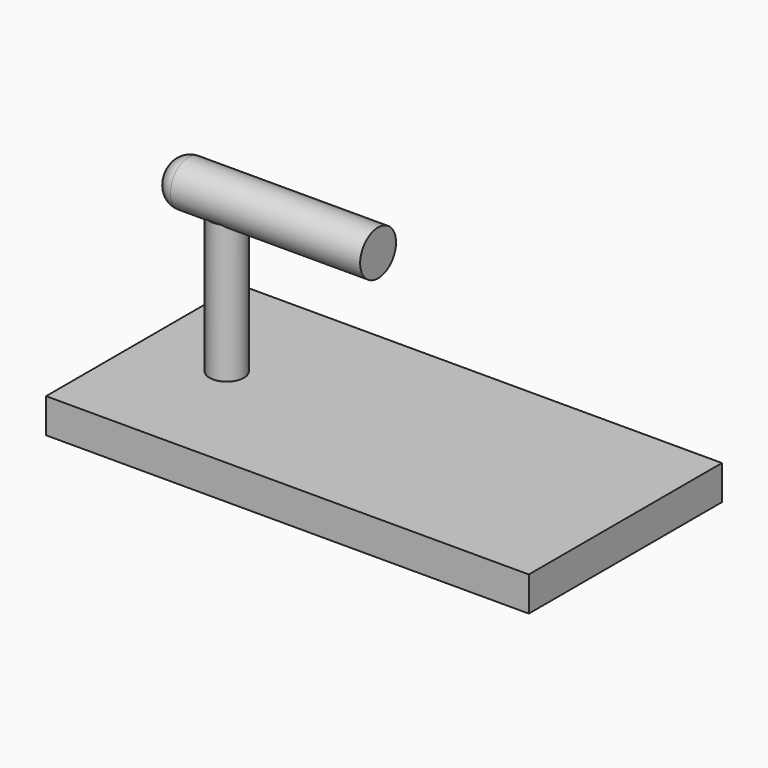
from build123d import *

# Parameters (mm, degrees)
F0_W     = 177.8
F0_H     = 12.7
F1_DEPTH = 44.45
F2_R     = 6.35
F3_DEPTH = 50.8
F4_R     = 10.728509
F5_DEPTH = 127
F6_R     = 8.265321
F7_DEPTH = 76.2
F8_R     = 6.35


with BuildPart() as f1:
    # F0 (on Front) → F1 (new body, symmetric)
    with BuildSketch(Plane.XZ):
        with Locations((2.174042, -62.946092)):
            Rectangle(F0_W, F0_H)
    extrude(amount=F1_DEPTH, both=True)

    # F2 (on face) → F3 (join)
    with BuildSketch(Plane.XY.offset(-56.596092)):
        with Locations((-55.75341, 0)):
            Circle(F2_R)
    extrude(amount=F3_DEPTH)

    # F4 (on Right) → F5 (cut)
    with BuildSketch(Plane.YZ):
        with Locations((0, 3.137364)):
            Circle(F4_R)
    extrude(amount=-F5_DEPTH, mode=Mode.SUBTRACT)

    # F6 (on Right) → F7 (join)
    with BuildSketch(Plane.YZ):
        Circle(F6_R)
    extrude(amount=-F7_DEPTH)

    # F8
    f8_edges = [f1.edges().sort_by_distance(p)[0] for p in [
        (-76.2, -8.265321, 0),
    ]]
    fillet(f8_edges, radius=F8_R)


solid = f1.part
